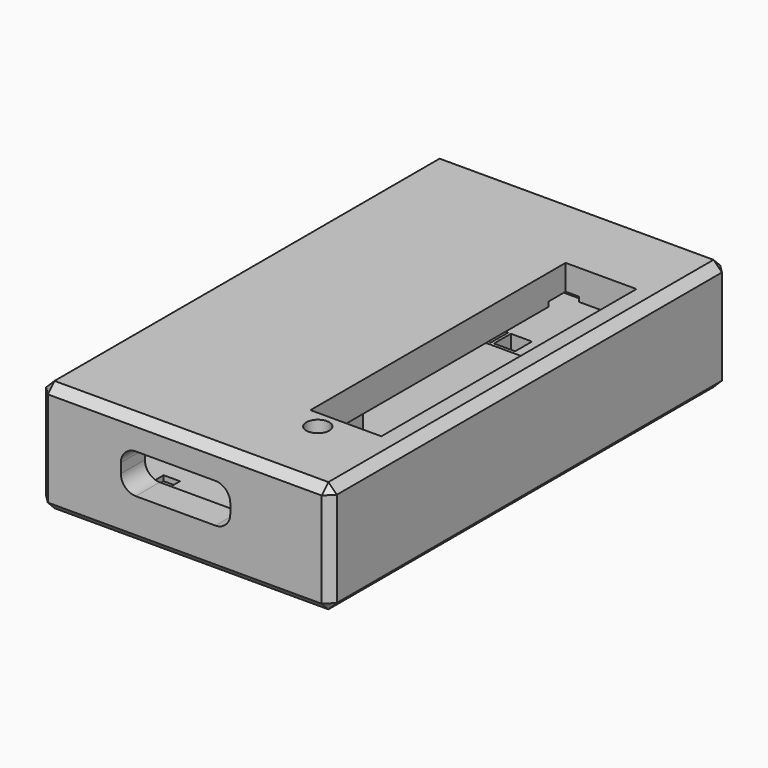
from build123d import *

# Parameters (mm, degrees)
SKETCH_W            = 24.202
SKETCH_H            = 41.474
PAD_DEPTH           = 9.33
CHAMFER_SIZE        = 0.7
POCKET_DEPTH        = 4.33
SKETCH002_R         = 0.955
POCKET001_DEPTH     = 6.771
POCKET002_DEPTH     = 8.734
SKETCH007_W         = 1.36
SKETCH007_H         = 2.46
SKETCH007_H_2       = 1.96
POCKET005_DEPTH     = 0.5
SKETCH004_W         = 9.11
SKETCH004_H         = 5
PAD001_DEPTH        = 4.08
SKETCH005_W         = 12.16
SKETCH005_H         = 3.66
POCKET003_DEPTH     = 8.839
SKETCH006_W         = 12.16
SKETCH006_H         = 4.82
POCKET004_DEPTH     = 8.839
SKETCH008_W         = 1.96
SKETCH008_H         = 3.36
SKETCH008_W_2       = 1.76
SKETCH008_H_2       = 1.76
POCKET006_DEPTH     = 2.06
POCKET007_DEPTH     = 5.771
SKETCH010_R         = 1.23
POCKET008_DEPTH     = 8.831
LINEARPATTERN_COUNT = 9
LINEARPATTERN_PITCH = 2.54
SKETCH011_W         = 7.98
SKETCH011_H         = 2.96
POCKET009_DEPTH     = 6.467


with BuildPart() as part:
    # Sketch → Pad (new body)
    with BuildSketch(Plane.XY.offset(-2.56)):
        with Locations((9.271, 19.431)):
            Rectangle(SKETCH_W, SKETCH_H)
    extrude(amount=PAD_DEPTH)

    # Chamfer
    chamfer_edges = [part.edges().sort_by_distance(p)[0] for p in [
        (-2.83, -1.306, 2.105),
        (21.372, -1.306, 2.105),
        (9.271, -1.306, -2.56),
        (9.271, -1.306, 6.77),
        (21.372, 40.168, 2.105),
        (21.372, 19.431, -2.56),
        (21.372, 19.431, 6.77),
        (-2.83, 40.168, 2.105),
        (9.271, 40.168, -2.56),
        (9.271, 40.168, 6.77),
        (-2.83, 19.431, -2.56),
        (-2.83, 19.431, 6.77),
    ]]
    chamfer(chamfer_edges, length=CHAMFER_SIZE)

    # Sketch001 → Pocket (cut)
    with BuildSketch(Plane.XY.offset(-0.06)):
        with BuildLine():
            Line((-0.33, 2.21), (0.686, 1.194))
            Line((0.686, 1.194), (17.856, 1.194))
            Line((17.856, 1.194), (18.872, 2.21))
            Line((18.872, 2.21), (18.872, 36.652))
            Line((18.872, 36.652), (17.856, 37.668))
            Line((17.856, 37.668), (0.686, 37.668))
            Line((0.686, 37.668), (-0.33, 36.652))
            Line((-0.33, 36.652), (-0.33, 22.784))
            Line((-0.33, 22.784), (1.27, 22.784))
            ThreePointArc((1.7, 22.354), (1.574056, 22.658056), (1.27, 22.784))
            Line((1.7, 22.354), (1.7, 18.54))
            ThreePointArc((1.27, 18.11), (1.574056, 18.235944), (1.7, 18.54))
            Line((1.27, 18.11), (-0.33, 18.11))
            Line((-0.33, 18.11), (-0.33, 2.21))
        make_face()
    extrude(amount=POCKET_DEPTH, mode=Mode.SUBTRACT)

    # Sketch002 → Pocket001 (cut, through all)
    with BuildSketch(Plane.XY):
        with Locations((15.24, 5.08)):
            Circle(SKETCH002_R)
    extrude(amount=POCKET001_DEPTH, mode=Mode.SUBTRACT)

    # Sketch003 → Pocket002 (cut, through all)
    with BuildSketch(Plane.XZ.offset(-7.427)):
        with BuildLine():
            Line((5.194, 4.27), (11.824, 4.27))
            ThreePointArc((13.064, 3.03), (12.700812, 3.906812), (11.824, 4.27))
            Line((13.064, 3.03), (13.064, 2.23))
            ThreePointArc((11.824, 0.99), (12.700812, 1.353188), (13.064, 2.23))
            Line((11.824, 0.99), (5.194, 0.99))
            ThreePointArc((3.954, 2.23), (4.317188, 1.353188), (5.194, 0.99))
            Line((3.954, 2.23), (3.954, 3.03))
            ThreePointArc((5.194, 4.27), (4.317188, 3.906812), (3.954, 3.03))
        make_face()
    extrude(amount=POCKET002_DEPTH, mode=Mode.SUBTRACT)

    # Sketch007 → Pocket005 (cut)
    with BuildSketch(Plane.XY):
        with Locations((4.189, 6.907)):
            Rectangle(SKETCH007_W, SKETCH007_H)
        with Locations((4.189, 2.727)):
            Rectangle(SKETCH007_W, SKETCH007_H_2)
        with Locations((12.829, 2.727)):
            Rectangle(SKETCH007_W, SKETCH007_H_2)
        with Locations((12.829, 6.907)):
            Rectangle(SKETCH007_W, SKETCH007_H)
    extrude(amount=-POCKET005_DEPTH, mode=Mode.SUBTRACT)

    # Sketch004 → Pad001 (join)
    with BuildSketch(Plane.XY.offset(2.69)):
        with Locations((8.509, 10.007)):
            Rectangle(SKETCH004_W, SKETCH004_H)
    extrude(amount=PAD001_DEPTH)

    # Sketch005 → Pocket003 (cut, through all)
    with BuildSketch(Plane.XZ.offset(-31.33)):
        with Locations((8.453, 2.83)):
            Rectangle(SKETCH005_W, SKETCH005_H)
    extrude(amount=-POCKET003_DEPTH, mode=Mode.SUBTRACT)

    # Sketch006 → Pocket004 (cut, through all)
    with BuildSketch(Plane.XZ.offset(-31.33)):
        with Locations((8.453, 2.25)):
            Rectangle(SKETCH006_W, SKETCH006_H)
    extrude(amount=-POCKET004_DEPTH, mode=Mode.SUBTRACT)

    # Sketch008 → Pocket006 (cut)
    with BuildSketch(Plane.XY):
        with Locations((2.603, 34.427)):
            Rectangle(SKETCH008_W, SKETCH008_H)
        with Locations((14.303, 34.427)):
            Rectangle(SKETCH008_W, SKETCH008_H)
        with Locations((4.953, 32.627)):
            Rectangle(SKETCH008_W_2, SKETCH008_H_2)
        with Locations((7.453, 32.627)):
            Rectangle(SKETCH008_W_2, SKETCH008_H_2)
        with Locations((9.453, 32.627)):
            Rectangle(SKETCH008_W_2, SKETCH008_H_2)
        with Locations((11.953, 32.627)):
            Rectangle(SKETCH008_W_2, SKETCH008_H_2)
    extrude(amount=-POCKET006_DEPTH, mode=Mode.SUBTRACT)

    # Sketch009 → Pocket007 (cut, through all)
    with BuildSketch(Plane.XY.offset(1)):
        Polygon((13.433, 33.125), (19.333, 33.125), (19.333, 6.575), (16.383, 6.575), (13.433, 6.575), align=None)
    extrude(amount=POCKET007_DEPTH, mode=Mode.SUBTRACT)

    # Sketch010 → Pocket008 (cut, through all)
    with BuildSketch(Plane.XY.offset(-2.06)):
        with Locations((16.383, 9.525)):
            Circle(SKETCH010_R)
    pocket008 = extrude(amount=POCKET008_DEPTH, mode=Mode.SUBTRACT)

    # LinearPattern: Pocket008 ×9
    with Locations(*[(0, i * LINEARPATTERN_PITCH, 0) for i in range(1, LINEARPATTERN_COUNT)]):
        add(pocket008, mode=Mode.SUBTRACT)

    # Sketch011 → Pocket009 (cut, through all)
    with BuildSketch(Plane.YZ.offset(3.636)):
        with Locations((13.462, -0.3)):
            Rectangle(SKETCH011_W, SKETCH011_H)
    extrude(amount=-POCKET009_DEPTH, mode=Mode.SUBTRACT)


solid = part.part
